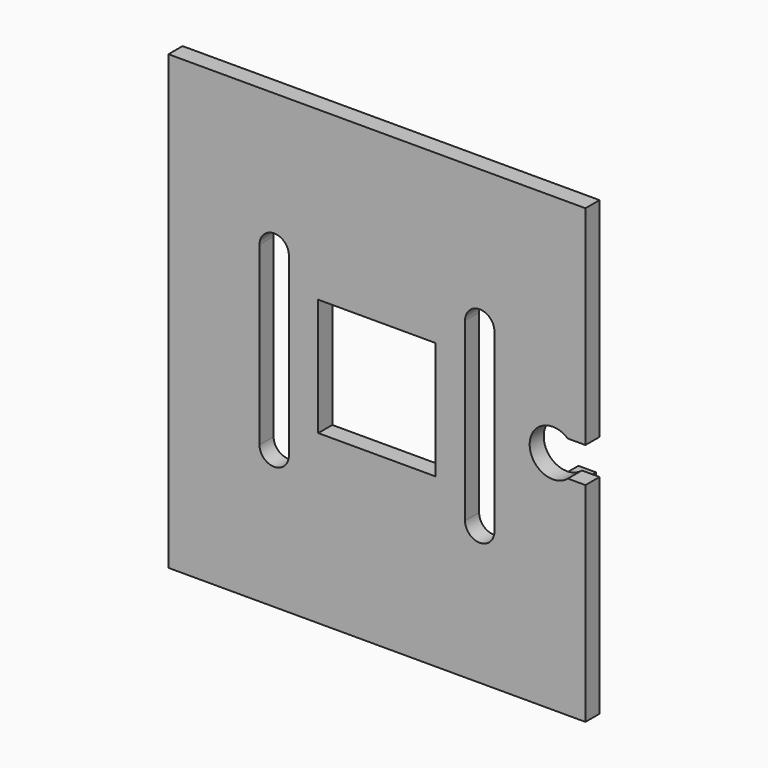
from build123d import *

# Parameters (mm, degrees)
SKETCH008_W  = 20
SKETCH008_H  = 20
PAD004_DEPTH = 3
PAD005_DEPTH = 3
SKETCH014_W  = 3
SKETCH014_H  = 3
PAD010_DEPTH = 1.5
SKETCH015_W  = 3
SKETCH015_H  = 3
PAD011_DEPTH = 1.5


with BuildPart() as part:
    # Sketch008 → Pad004 (new body)
    with BuildSketch(Plane.XZ):
        with BuildLine():
            Line((-68, -38.5), (3, -38.5))
            Line((3, -3), (3, -38.5))
            Line((0, -3), (3, -3))
            ThreePointArc((0, 3), (-6.5, 0), (0, -3))
            Line((0, 3), (3, 3))
            Line((3, 3), (3, 38.5))
            Line((3, 38.5), (-68, 38.5))
            Line((-68, 38.5), (-68, -38.5))
        make_face()
        with BuildLine():
            ThreePointArc((-12.5, 15), (-15, 17.5), (-17.5, 15))
            Line((-17.5, 15), (-17.5, -15))
            ThreePointArc((-17.5, -15), (-15, -17.5), (-12.5, -15))
            Line((-12.5, 15), (-12.5, -15))
        make_face(mode=Mode.SUBTRACT)
        with BuildLine():
            ThreePointArc((-47.5, 15), (-50, 17.5), (-52.5, 15))
            Line((-52.5, 15), (-52.5, -15))
            ThreePointArc((-52.5, -15), (-50, -17.5), (-47.5, -15))
            Line((-47.5, 15), (-47.5, -15))
        make_face(mode=Mode.SUBTRACT)
        with Locations((-32.5, 0)):
            Rectangle(SKETCH008_W, SKETCH008_H, mode=Mode.SUBTRACT)
    extrude(amount=PAD004_DEPTH)

    # Sketch009 → Pad005 (join)
    with BuildSketch(Plane.XY.offset(31)):
        Polygon((-5, 0), (-5, 4), (-4, 5.5), (-5, 7), (-7, 7), (-7, 0), align=None)
        Polygon((-60, 0), (-60, 4), (-61, 5.5), (-60, 7), (-58, 7), (-58, 0), align=None)
    pad005 = extrude(amount=-PAD005_DEPTH)

    # Mirrored001: Pad005 across XY
    add(pad005.mirror(Plane.XY))

    # Sketch014 → Pad010 (join, symmetric)
    with BuildSketch(Plane.XY.offset(-6)):
        with Locations((-1.5, 1.5)):
            Rectangle(SKETCH014_W, SKETCH014_H)
        with Locations((-63.5, 1.5)):
            Rectangle(SKETCH014_W, SKETCH014_H)
    extrude(amount=PAD010_DEPTH, both=True)

    # Sketch015 → Pad011 (join, symmetric)
    with BuildSketch(Plane.YZ.offset(-33)):
        with Locations((1.5, -34)):
            Rectangle(SKETCH015_W, SKETCH015_H)
        with Locations((1.5, 34)):
            Rectangle(SKETCH015_W, SKETCH015_H)
    extrude(amount=PAD011_DEPTH, both=True)


with BuildPart() as part_1:
    # Body003 placement: moved
    add(part.part.moved(Location((0, -55, 0))))


solid = part_1.part
